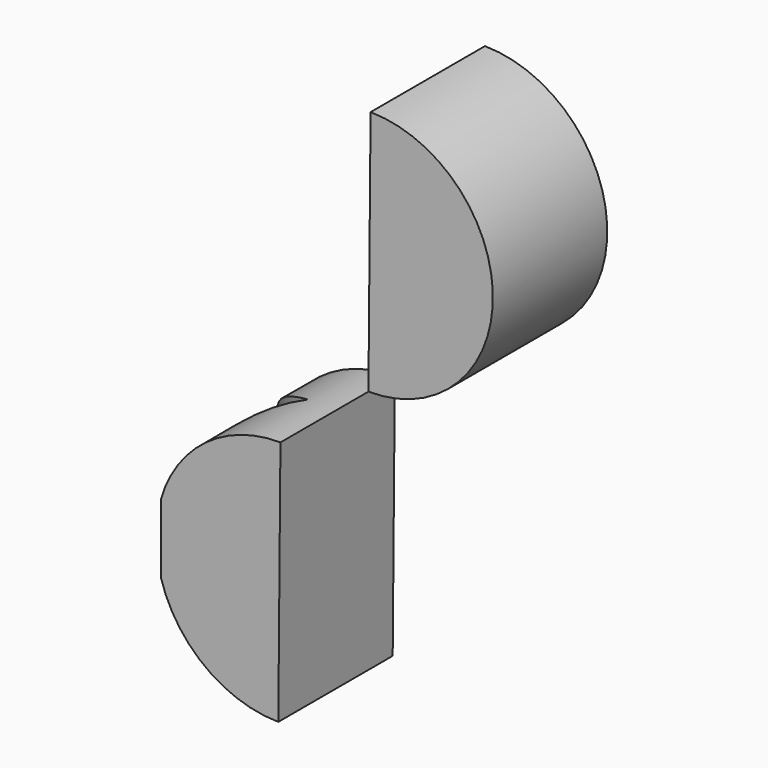
from build123d import *

# Parameters (mm, degrees)
F1_DEPTH = 1.3208
F2_ANGLE = 180
F5_DEPTH = 101.6


with BuildPart() as f1:
    # F0 (on Front) → F1 (new body)
    with BuildSketch(Plane.XZ):
        with BuildLine():
            Line((-32.139756, 52.597248), (-32.1595, 50.31779))
            ThreePointArc((-32.1595, 50.31779), (-31.009899, 51.447647), (-32.139756, 52.597248))
        make_face()
    extrude(amount=F1_DEPTH)


with BuildPart() as f2_1:
    # F2: copy of F1
    add(f1.part.rotate(Axis((-32.1595, -0.6604, 50.31779), (0, -1, 0)), F2_ANGLE))


with BuildPart() as f2_1_1:
    # F3: moved
    add(f2_1.part.moved(Location((0, -1.016, 0))))

    # F4 (on Top) → F5 (cut)
    with BuildSketch(Plane.XY):
        with BuildLine():
            ThreePointArc((-32.472003, -1.62864), (-33.012517, -1.292109), (-33.350453, -0.752472))
            Line((-33.350453, -0.752472), (-33.350453, -2.492071))
            ThreePointArc((-33.350453, -2.492071), (-32.983826, -1.986495), (-32.472003, -1.62864))
        make_face()
    extrude(amount=F5_DEPTH, mode=Mode.SUBTRACT)


solid = Compound([f1.part, f2_1_1.part])
